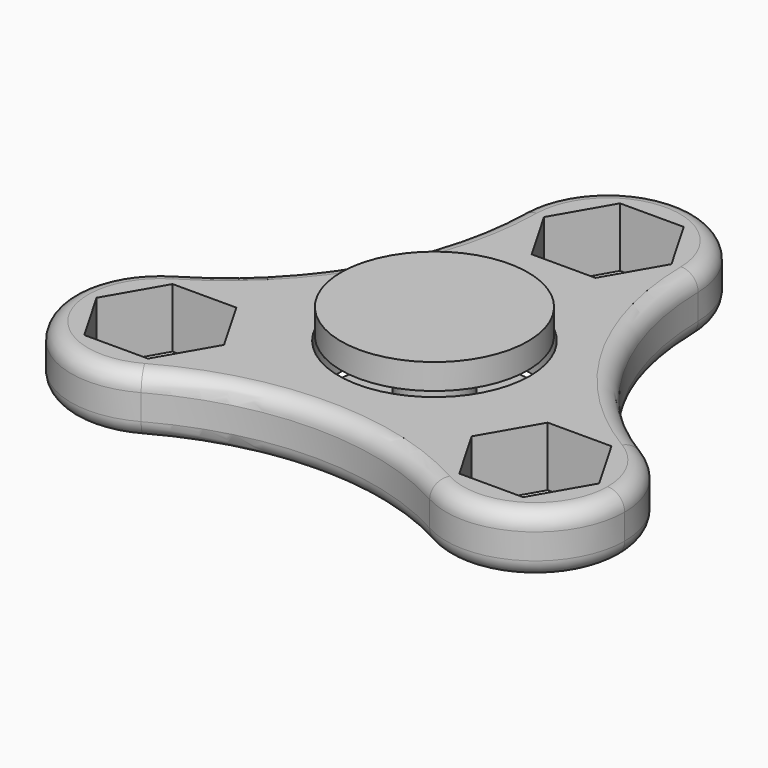
from build123d import *

# Parameters (mm, degrees)
F0_R     = 11.25
F1_DEPTH = 7
F2_R     = 2


with BuildPart() as f1:
    # F0 (on Top) → F1 (new body)
    with BuildSketch(Plane.XY):
        with BuildLine():
            ThreePointArc((-10.5040322028, 25.6732251716), (-0.0893925718, 14.9892733321), (10.5055534995, 25.4944465005))
            ThreePointArc((10.5055534995, 25.4944465005), (10.5051731684, 25.5838390724), (10.5040322028, 25.6732251716))
            ThreePointArc((10.5040322028, 25.6732251716), (0, 36), (-10.5040322028, 25.6732251716))
        make_face()
        Polygon((3.7527767497, 31.9944465005), (7.5055534995, 25.4944465005), (3.7527767497, 18.9944465005), (-3.7527767497, 18.9944465005), (-7.5055534995, 25.4944465005), (-3.7527767497, 31.9944465005), align=None, mode=Mode.SUBTRACT)
        with BuildLine():
            ThreePointArc((10.5040322028, 25.6732251716), (10.5051731684, 25.5838390724), (10.5055534995, 25.4944465005))
            ThreePointArc((10.5055534995, 25.4944465005), (-0.0893925718, 14.9892733321), (-10.5040322028, 25.6732251716))
            ThreePointArc((-10.5040322028, 25.6732251716), (-15.188074762, 8.7688390523), (-27.4856812971, -3.739853856))
            ThreePointArc((-27.4856812971, -3.739853856), (-16.9036679788, -3.6047801294), (-11.5732848254, -12.7472232503))
            ThreePointArc((-11.5732848254, -12.7472232503), (-13.0257877758, -18.0772260726), (-16.9816490943, -21.9333713156))
            ThreePointArc((-16.9816490943, -21.9333713156), (0, -17.5376781046), (16.9816490943, -21.9333713156))
            ThreePointArc((16.9816490943, -21.9333713156), (12.9807621135, -7.4944465005), (27.4856812971, -3.739853856))
            ThreePointArc((27.4856812971, -3.739853856), (15.188074762, 8.7688390523), (10.5040322028, 25.6732251716))
        make_face()
        Circle(F0_R, mode=Mode.SUBTRACT)
        with BuildLine():
            ThreePointArc((32.5843918244, -12.7472232503), (31.2212814458, -7.5720529042), (27.4856812971, -3.739853856))
            ThreePointArc((27.4856812971, -3.739853856), (12.9807621135, -7.4944465005), (16.9816490943, -21.9333713156))
            ThreePointArc((16.9816490943, -21.9333713156), (27.4088411472, -21.8002737994), (32.5843918244, -12.7472232503))
        make_face()
        Polygon((25.8316150746, -6.2472232503), (29.5843918244, -12.7472232503), (25.8316150746, -19.2472232503), (18.3260615752, -19.2472232503), (14.5732848254, -12.7472232503), (18.3260615752, -6.2472232503), align=None, mode=Mode.SUBTRACT)
        with BuildLine():
            ThreePointArc((-11.5732848254, -12.7472232503), (-16.9036679788, -3.6047801294), (-27.4856812971, -3.739853856))
            ThreePointArc((-27.4856812971, -3.739853856), (-31.1769145362, -18), (-16.9816490943, -21.9333713156))
            ThreePointArc((-16.9816490943, -21.9333713156), (-13.0257877758, -18.0772260726), (-11.5732848254, -12.7472232503))
        make_face()
        Polygon((-18.3260615752, -19.2472232503), (-25.8316150746, -19.2472232503), (-29.5843918244, -12.7472232503), (-25.8316150746, -6.2472232503), (-18.3260615752, -6.2472232503), (-14.5732848254, -12.7472232503), align=None, mode=Mode.SUBTRACT)
    extrude(amount=F1_DEPTH)

    # F2
    f2_edges = [f1.edges().sort_by_distance(p)[0] for p in [
        (-31.176915, -18, 7),
        (-31.176915, -18, 0),
    ]]
    fillet(f2_edges, radius=F2_R)


with BuildPart() as f4:
    # F3 (on Right) → F4 (revolve)
    with BuildSketch(Plane.YZ):
        Polygon((-3.85, 7.5), (-3.85, 7), (-3.85, 0), (-3.95, 0), (-4.85, 0), (-4.85, -0.5), (-11, -0.5), (-11, -3.5), (0, -3.5), (0, 9.5), (-3.85, 9.5), align=None)
    revolve(axis=Axis((0, 0, 3.6496419925), (0, 0, -1)))


with BuildPart() as f5:
    # F3 (on Right) → F5 (revolve)
    with BuildSketch(Plane.YZ):
        Polygon((-11, 7.5), (-3.85, 7.5), (-3.85, 9.5), (0, 9.5), (0, 10.5), (-11, 10.5), align=None)
    revolve(axis=Axis((0, 0, 3.6496419925), (0, 0, -1)))


solid = Compound([f1.part, f4.part, f5.part])
